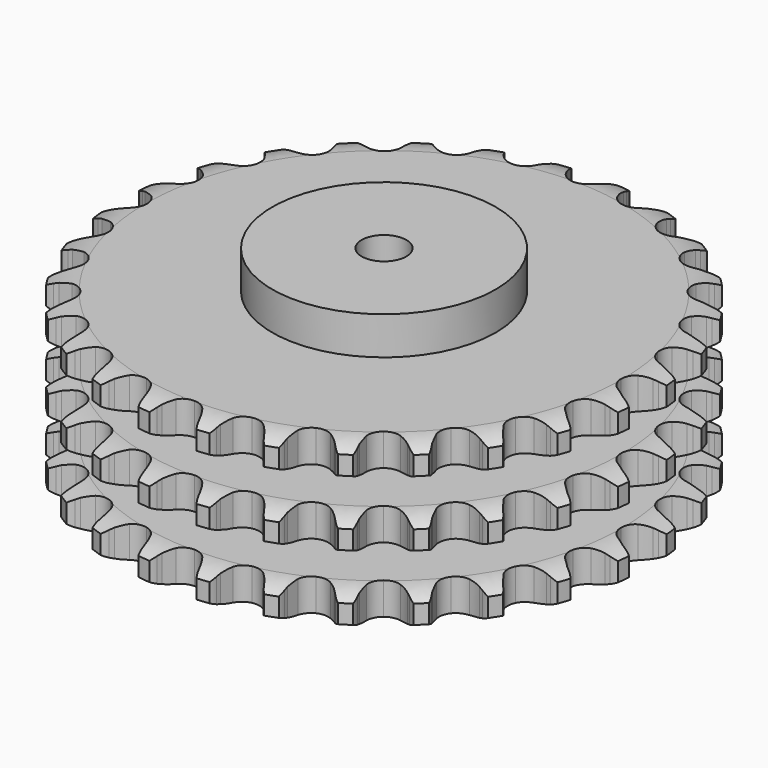
from build123d import *

# Parameters (mm, degrees)
PAD_DEPTH         = 146
SKETCH001_R       = 100
PAD001_DEPTH      = 180
SKETCH002_R       = 20
POCKET_DEPTH      = 0.001
POCKET_DEPTH_BACK = 180.001


with BuildPart() as part:
    # Sprocket → Pad (new body)
    with BuildSketch(Plane.XY):
        with BuildLine():
            ThreePointArc((-27.282384, 242.137854), (-21.936938, 237.213155), (-18.316343, 230.910954))
            Line((-18.316343, 230.910954), (-16.893061, 227.230633))
            ThreePointArc((-16.893061, 227.230633), (-14.635595, 222.420827), (-11.730702, 217.972007))
            ThreePointArc((-11.730702, 217.972007), (-6.549879, 213.679527), (0, 212.141543))
            ThreePointArc((0, 212.141543), (6.549879, 213.679527), (11.730702, 217.972007))
            ThreePointArc((11.730702, 217.972007), (14.635595, 222.420827), (16.893061, 227.230633))
            Line((16.893061, 227.230633), (18.316343, 230.910954))
            ThreePointArc((18.316343, 230.910954), (21.936938, 237.213155), (27.282384, 242.137854))
            ThreePointArc((27.282384, 242.137854), (31.39796, 236.147154), (33.525407, 229.197304))
            Line((33.525407, 229.197304), (34.094056, 225.292547))
            ThreePointArc((34.094056, 225.292547), (35.22464, 220.100998), (37.066746, 215.117321))
            ThreePointArc((37.066746, 215.117321), (41.162508, 209.77962), (47.205934, 206.822712))
            ThreePointArc((47.205934, 206.822712), (53.933828, 206.86465), (59.939923, 209.896667))
            Line((59.939923, 209.896667), (67.03309, 217.774427))
            ThreePointArc((67.03309, 217.774427), (68.093965, 219.438693), (69.239635, 221.045765))
            ThreePointArc((69.239635, 221.045765), (74.171826, 226.384298), (80.479099, 229.99605))
            ThreePointArc((80.479099, 229.99605), (83.158433, 223.239748), (83.686054, 215.990744))
            Line((83.686054, 215.990744), (83.371554, 212.057351))
            ThreePointArc((83.371554, 212.057351), (83.318565, 206.744387), (84.005513, 201.475753))
            ThreePointArc((84.005513, 201.475753), (86.810835, 195.360487), (92.044766, 191.132926))
            ThreePointArc((92.044766, 191.132926), (98.613309, 189.676715), (105.143507, 191.296232))
            Line((105.143507, 191.296232), (113.811799, 197.398102))
            ThreePointArc((113.811799, 197.398102), (115.21641, 198.784574), (116.690963, 200.096417))
            ThreePointArc((116.690963, 200.096417), (122.687429, 204.203587), (129.640256, 206.321285))
            ThreePointArc((129.640256, 206.321285), (130.748995, 199.13817), (129.650332, 191.953506))
            Line((129.650332, 191.953506), (128.468455, 188.188715))
            ThreePointArc((128.468455, 188.188715), (127.234548, 183.020749), (126.731892, 177.73135))
            ThreePointArc((126.731892, 177.73135), (128.106104, 171.145164), (132.268089, 165.858937))
            ThreePointArc((132.268089, 165.858937), (138.347908, 162.977598), (145.074755, 163.103405))
            Line((145.074755, 163.103405), (154.88351, 167.123411))
            ThreePointArc((154.88351, 167.123411), (156.561424, 168.162566), (158.290918, 169.113401))
            ThreePointArc((158.290918, 169.113401), (165.050972, 171.783256), (172.300709, 172.300709))
            ThreePointArc((172.300709, 172.300709), (171.783256, 165.050972), (169.113401, 158.290918))
            Line((169.113401, 158.290918), (167.123411, 154.88351))
            ThreePointArc((167.123411, 154.88351), (164.770461, 150.119686), (163.103405, 145.074755))
            ThreePointArc((163.103405, 145.074755), (162.977598, 138.347908), (165.858937, 132.268089))
            ThreePointArc((165.858937, 132.268089), (171.145164, 128.106104), (177.73135, 126.731892))
            Line((177.73135, 126.731892), (188.188715, 128.468455))
            ThreePointArc((188.188715, 128.468455), (190.055793, 129.108186), (191.953506, 129.650332))
            ThreePointArc((191.953506, 129.650332), (199.13817, 130.748995), (206.321285, 129.640256))
            ThreePointArc((206.321285, 129.640256), (204.203587, 122.687429), (200.096417, 116.690963))
            Line((200.096417, 116.690963), (197.398102, 113.811799))
            ThreePointArc((197.398102, 113.811799), (194.044094, 109.690995), (191.296232, 105.143507))
            ThreePointArc((191.296232, 105.143507), (189.676715, 98.613309), (191.132926, 92.044766))
            ThreePointArc((191.132926, 92.044766), (195.360487, 86.810835), (201.475753, 84.005513))
            Line((201.475753, 84.005513), (212.057351, 83.371554))
            ThreePointArc((212.057351, 83.371554), (214.019972, 83.579781), (215.990744, 83.686054))
            ThreePointArc((215.990744, 83.686054), (223.239748, 83.158433), (229.99605, 80.479099))
            ThreePointArc((229.99605, 80.479099), (226.384298, 74.171826), (221.045765, 69.239635))
            Line((221.045765, 69.239635), (217.774427, 67.03309))
            ThreePointArc((217.774427, 67.03309), (213.587546, 63.76194), (209.896667, 59.939923))
            ThreePointArc((209.896667, 59.939923), (206.86465, 53.933828), (206.822712, 47.205934))
            ThreePointArc((206.822712, 47.205934), (209.77962, 41.162508), (215.117321, 37.066746))
            Line((215.117321, 37.066746), (225.292547, 34.094056))
            ThreePointArc((225.292547, 34.094056), (227.252295, 33.860338), (229.197304, 33.525407))
            ThreePointArc((229.197304, 33.525407), (236.147154, 31.39796), (242.137854, 27.282384))
            ThreePointArc((242.137854, 27.282384), (237.213155, 21.936938), (230.910954, 18.316343))
            Line((230.910954, 18.316343), (227.230633, 16.893061))
            ThreePointArc((227.230633, 16.893061), (222.420827, 14.635595), (217.972007, 11.730702))
            ThreePointArc((217.972007, 11.730702), (213.679527, 6.549879), (212.141543, 0))
            ThreePointArc((212.141543, 0), (213.679527, -6.549879), (217.972007, -11.730702))
            Line((217.972007, -11.730702), (227.230633, -16.893061))
            ThreePointArc((227.230633, -16.893061), (229.08924, -17.557005), (230.910954, -18.316343))
            ThreePointArc((230.910954, -18.316343), (237.213155, -21.936938), (242.137854, -27.282384))
            ThreePointArc((242.137854, -27.282384), (236.147154, -31.39796), (229.197304, -33.525407))
            Line((229.197304, -33.525407), (225.292547, -34.094056))
            ThreePointArc((225.292547, -34.094056), (220.100998, -35.22464), (215.117321, -37.066746))
            ThreePointArc((215.117321, -37.066746), (209.77962, -41.162508), (206.822712, -47.205934))
            ThreePointArc((206.822712, -47.205934), (206.86465, -53.933828), (209.896667, -59.939923))
            Line((209.896667, -59.939923), (217.774427, -67.03309))
            ThreePointArc((217.774427, -67.03309), (219.438693, -68.093965), (221.045765, -69.239635))
            ThreePointArc((221.045765, -69.239635), (226.384298, -74.171826), (229.99605, -80.479099))
            ThreePointArc((229.99605, -80.479099), (223.239748, -83.158433), (215.990744, -83.686054))
            Line((215.990744, -83.686054), (212.057351, -83.371554))
            ThreePointArc((212.057351, -83.371554), (206.744387, -83.318565), (201.475753, -84.005513))
            ThreePointArc((201.475753, -84.005513), (195.360487, -86.810835), (191.132926, -92.044766))
            ThreePointArc((191.132926, -92.044766), (189.676715, -98.613309), (191.296232, -105.143507))
            Line((191.296232, -105.143507), (197.398102, -113.811799))
            ThreePointArc((197.398102, -113.811799), (198.784574, -115.21641), (200.096417, -116.690963))
            ThreePointArc((200.096417, -116.690963), (204.203587, -122.687429), (206.321285, -129.640256))
            ThreePointArc((206.321285, -129.640256), (199.13817, -130.748995), (191.953506, -129.650332))
            Line((191.953506, -129.650332), (188.188715, -128.468455))
            ThreePointArc((188.188715, -128.468455), (183.020749, -127.234548), (177.73135, -126.731892))
            ThreePointArc((177.73135, -126.731892), (171.145164, -128.106104), (165.858937, -132.268089))
            ThreePointArc((165.858937, -132.268089), (162.977598, -138.347908), (163.103405, -145.074755))
            Line((163.103405, -145.074755), (167.123411, -154.88351))
            ThreePointArc((167.123411, -154.88351), (168.162566, -156.561424), (169.113401, -158.290918))
            ThreePointArc((169.113401, -158.290918), (171.783256, -165.050972), (172.300709, -172.300709))
            ThreePointArc((172.300709, -172.300709), (165.050972, -171.783256), (158.290918, -169.113401))
            Line((158.290918, -169.113401), (154.88351, -167.123411))
            ThreePointArc((154.88351, -167.123411), (150.119686, -164.770461), (145.074755, -163.103405))
            ThreePointArc((145.074755, -163.103405), (138.347908, -162.977598), (132.268089, -165.858937))
            ThreePointArc((132.268089, -165.858937), (128.106104, -171.145164), (126.731892, -177.73135))
            Line((126.731892, -177.73135), (128.468455, -188.188715))
            ThreePointArc((128.468455, -188.188715), (129.108186, -190.055793), (129.650332, -191.953506))
            ThreePointArc((129.650332, -191.953506), (130.748995, -199.13817), (129.640256, -206.321285))
            ThreePointArc((129.640256, -206.321285), (122.687429, -204.203587), (116.690963, -200.096417))
            Line((116.690963, -200.096417), (113.811799, -197.398102))
            ThreePointArc((113.811799, -197.398102), (109.690995, -194.044094), (105.143507, -191.296232))
            ThreePointArc((105.143507, -191.296232), (98.613309, -189.676715), (92.044766, -191.132926))
            ThreePointArc((92.044766, -191.132926), (86.810835, -195.360487), (84.005513, -201.475753))
            Line((84.005513, -201.475753), (83.371554, -212.057351))
            ThreePointArc((83.371554, -212.057351), (83.579781, -214.019972), (83.686054, -215.990744))
            ThreePointArc((83.686054, -215.990744), (83.158433, -223.239748), (80.479099, -229.99605))
            ThreePointArc((80.479099, -229.99605), (74.171826, -226.384298), (69.239635, -221.045765))
            Line((69.239635, -221.045765), (67.03309, -217.774427))
            ThreePointArc((67.03309, -217.774427), (63.76194, -213.587546), (59.939923, -209.896667))
            ThreePointArc((59.939923, -209.896667), (53.933828, -206.86465), (47.205934, -206.822712))
            ThreePointArc((47.205934, -206.822712), (41.162508, -209.77962), (37.066746, -215.117321))
            Line((37.066746, -215.117321), (34.094056, -225.292547))
            ThreePointArc((34.094056, -225.292547), (33.860338, -227.252295), (33.525407, -229.197304))
            ThreePointArc((33.525407, -229.197304), (31.39796, -236.147154), (27.282384, -242.137854))
            ThreePointArc((27.282384, -242.137854), (21.936938, -237.213155), (18.316343, -230.910954))
            Line((18.316343, -230.910954), (16.893061, -227.230633))
            ThreePointArc((16.893061, -227.230633), (14.635595, -222.420827), (11.730702, -217.972007))
            ThreePointArc((11.730702, -217.972007), (6.549879, -213.679527), (0, -212.141543))
            ThreePointArc((0, -212.141543), (-6.549879, -213.679527), (-11.730702, -217.972007))
            Line((-11.730702, -217.972007), (-16.893061, -227.230633))
            ThreePointArc((-16.893061, -227.230633), (-17.557005, -229.08924), (-18.316343, -230.910954))
            ThreePointArc((-18.316343, -230.910954), (-21.936938, -237.213155), (-27.282384, -242.137854))
            ThreePointArc((-27.282384, -242.137854), (-31.39796, -236.147154), (-33.525407, -229.197304))
            Line((-33.525407, -229.197304), (-34.094056, -225.292547))
            ThreePointArc((-34.094056, -225.292547), (-35.22464, -220.100998), (-37.066746, -215.117321))
            ThreePointArc((-37.066746, -215.117321), (-41.162508, -209.77962), (-47.205934, -206.822712))
            ThreePointArc((-47.205934, -206.822712), (-53.933828, -206.86465), (-59.939923, -209.896667))
            Line((-59.939923, -209.896667), (-67.03309, -217.774427))
            ThreePointArc((-67.03309, -217.774427), (-68.093965, -219.438693), (-69.239635, -221.045765))
            ThreePointArc((-69.239635, -221.045765), (-74.171826, -226.384298), (-80.479099, -229.99605))
            ThreePointArc((-80.479099, -229.99605), (-83.158433, -223.239748), (-83.686054, -215.990744))
            Line((-83.686054, -215.990744), (-83.371554, -212.057351))
            ThreePointArc((-83.371554, -212.057351), (-83.318565, -206.744387), (-84.005513, -201.475753))
            ThreePointArc((-84.005513, -201.475753), (-86.810835, -195.360487), (-92.044766, -191.132926))
            ThreePointArc((-92.044766, -191.132926), (-98.613309, -189.676715), (-105.143507, -191.296232))
            Line((-105.143507, -191.296232), (-113.811799, -197.398102))
            ThreePointArc((-113.811799, -197.398102), (-115.21641, -198.784574), (-116.690963, -200.096417))
            ThreePointArc((-116.690963, -200.096417), (-122.687429, -204.203587), (-129.640256, -206.321285))
            ThreePointArc((-129.640256, -206.321285), (-130.748995, -199.13817), (-129.650332, -191.953506))
            Line((-129.650332, -191.953506), (-128.468455, -188.188715))
            ThreePointArc((-128.468455, -188.188715), (-127.234548, -183.020749), (-126.731892, -177.73135))
            ThreePointArc((-126.731892, -177.73135), (-128.106104, -171.145164), (-132.268089, -165.858937))
            ThreePointArc((-132.268089, -165.858937), (-138.347908, -162.977598), (-145.074755, -163.103405))
            Line((-145.074755, -163.103405), (-154.88351, -167.123411))
            ThreePointArc((-154.88351, -167.123411), (-156.561424, -168.162566), (-158.290918, -169.113401))
            ThreePointArc((-158.290918, -169.113401), (-165.050972, -171.783256), (-172.300709, -172.300709))
            ThreePointArc((-172.300709, -172.300709), (-171.783256, -165.050972), (-169.113401, -158.290918))
            Line((-169.113401, -158.290918), (-167.123411, -154.88351))
            ThreePointArc((-167.123411, -154.88351), (-164.770461, -150.119686), (-163.103405, -145.074755))
            ThreePointArc((-163.103405, -145.074755), (-162.977598, -138.347908), (-165.858937, -132.268089))
            ThreePointArc((-165.858937, -132.268089), (-171.145164, -128.106104), (-177.73135, -126.731892))
            Line((-177.73135, -126.731892), (-188.188715, -128.468455))
            ThreePointArc((-188.188715, -128.468455), (-190.055793, -129.108186), (-191.953506, -129.650332))
            ThreePointArc((-191.953506, -129.650332), (-199.13817, -130.748995), (-206.321285, -129.640256))
            ThreePointArc((-206.321285, -129.640256), (-204.203587, -122.687429), (-200.096417, -116.690963))
            Line((-200.096417, -116.690963), (-197.398102, -113.811799))
            ThreePointArc((-197.398102, -113.811799), (-194.044094, -109.690995), (-191.296232, -105.143507))
            ThreePointArc((-191.296232, -105.143507), (-189.676715, -98.613309), (-191.132926, -92.044766))
            ThreePointArc((-191.132926, -92.044766), (-195.360487, -86.810835), (-201.475753, -84.005513))
            Line((-201.475753, -84.005513), (-212.057351, -83.371554))
            ThreePointArc((-212.057351, -83.371554), (-214.019972, -83.579781), (-215.990744, -83.686054))
            ThreePointArc((-215.990744, -83.686054), (-223.239748, -83.158433), (-229.99605, -80.479099))
            ThreePointArc((-229.99605, -80.479099), (-226.384298, -74.171826), (-221.045765, -69.239635))
            Line((-221.045765, -69.239635), (-217.774427, -67.03309))
            ThreePointArc((-217.774427, -67.03309), (-213.587546, -63.76194), (-209.896667, -59.939923))
            ThreePointArc((-209.896667, -59.939923), (-206.86465, -53.933828), (-206.822712, -47.205934))
            ThreePointArc((-206.822712, -47.205934), (-209.77962, -41.162508), (-215.117321, -37.066746))
            Line((-215.117321, -37.066746), (-225.292547, -34.094056))
            ThreePointArc((-225.292547, -34.094056), (-227.252295, -33.860338), (-229.197304, -33.525407))
            ThreePointArc((-229.197304, -33.525407), (-236.147154, -31.39796), (-242.137854, -27.282384))
            ThreePointArc((-242.137854, -27.282384), (-237.213155, -21.936938), (-230.910954, -18.316343))
            Line((-230.910954, -18.316343), (-227.230633, -16.893061))
            ThreePointArc((-227.230633, -16.893061), (-222.420827, -14.635595), (-217.972007, -11.730702))
            ThreePointArc((-217.972007, -11.730702), (-213.679527, -6.549879), (-212.141543, 0))
            ThreePointArc((-212.141543, 0), (-213.679527, 6.549879), (-217.972007, 11.730702))
            Line((-217.972007, 11.730702), (-227.230633, 16.893061))
            ThreePointArc((-227.230633, 16.893061), (-229.08924, 17.557005), (-230.910954, 18.316343))
            ThreePointArc((-230.910954, 18.316343), (-237.213155, 21.936938), (-242.137854, 27.282384))
            ThreePointArc((-242.137854, 27.282384), (-236.147154, 31.39796), (-229.197304, 33.525407))
            Line((-229.197304, 33.525407), (-225.292547, 34.094056))
            ThreePointArc((-225.292547, 34.094056), (-220.100998, 35.22464), (-215.117321, 37.066746))
            ThreePointArc((-215.117321, 37.066746), (-209.77962, 41.162508), (-206.822712, 47.205934))
            ThreePointArc((-206.822712, 47.205934), (-206.86465, 53.933828), (-209.896667, 59.939923))
            Line((-209.896667, 59.939923), (-217.774427, 67.03309))
            ThreePointArc((-217.774427, 67.03309), (-219.438693, 68.093965), (-221.045765, 69.239635))
            ThreePointArc((-221.045765, 69.239635), (-226.384298, 74.171826), (-229.99605, 80.479099))
            ThreePointArc((-229.99605, 80.479099), (-223.239748, 83.158433), (-215.990744, 83.686054))
            Line((-215.990744, 83.686054), (-212.057351, 83.371554))
            ThreePointArc((-212.057351, 83.371554), (-206.744387, 83.318565), (-201.475753, 84.005513))
            ThreePointArc((-201.475753, 84.005513), (-195.360487, 86.810835), (-191.132926, 92.044766))
            ThreePointArc((-191.132926, 92.044766), (-189.676715, 98.613309), (-191.296232, 105.143507))
            Line((-191.296232, 105.143507), (-197.398102, 113.811799))
            ThreePointArc((-197.398102, 113.811799), (-198.784574, 115.21641), (-200.096417, 116.690963))
            ThreePointArc((-200.096417, 116.690963), (-204.203587, 122.687429), (-206.321285, 129.640256))
            ThreePointArc((-206.321285, 129.640256), (-199.13817, 130.748995), (-191.953506, 129.650332))
            Line((-191.953506, 129.650332), (-188.188715, 128.468455))
            ThreePointArc((-188.188715, 128.468455), (-183.020749, 127.234548), (-177.73135, 126.731892))
            ThreePointArc((-177.73135, 126.731892), (-171.145164, 128.106104), (-165.858937, 132.268089))
            ThreePointArc((-165.858937, 132.268089), (-162.977598, 138.347908), (-163.103405, 145.074755))
            Line((-163.103405, 145.074755), (-167.123411, 154.88351))
            ThreePointArc((-167.123411, 154.88351), (-168.162566, 156.561424), (-169.113401, 158.290918))
            ThreePointArc((-169.113401, 158.290918), (-171.783256, 165.050972), (-172.300709, 172.300709))
            ThreePointArc((-172.300709, 172.300709), (-165.050972, 171.783256), (-158.290918, 169.113401))
            Line((-158.290918, 169.113401), (-154.88351, 167.123411))
            ThreePointArc((-154.88351, 167.123411), (-150.119686, 164.770461), (-145.074755, 163.103405))
            ThreePointArc((-145.074755, 163.103405), (-138.347908, 162.977598), (-132.268089, 165.858937))
            ThreePointArc((-132.268089, 165.858937), (-128.106104, 171.145164), (-126.731892, 177.73135))
            Line((-126.731892, 177.73135), (-128.468455, 188.188715))
            ThreePointArc((-128.468455, 188.188715), (-129.108186, 190.055793), (-129.650332, 191.953506))
            ThreePointArc((-129.650332, 191.953506), (-130.748995, 199.13817), (-129.640256, 206.321285))
            ThreePointArc((-129.640256, 206.321285), (-122.687429, 204.203587), (-116.690963, 200.096417))
            Line((-116.690963, 200.096417), (-113.811799, 197.398102))
            ThreePointArc((-113.811799, 197.398102), (-109.690995, 194.044094), (-105.143507, 191.296232))
            ThreePointArc((-105.143507, 191.296232), (-98.613309, 189.676715), (-92.044766, 191.132926))
            ThreePointArc((-92.044766, 191.132926), (-86.810835, 195.360487), (-84.005513, 201.475753))
            Line((-84.005513, 201.475753), (-83.371554, 212.057351))
            ThreePointArc((-83.371554, 212.057351), (-83.579781, 214.019972), (-83.686054, 215.990744))
            ThreePointArc((-83.686054, 215.990744), (-83.158433, 223.239748), (-80.479099, 229.99605))
            ThreePointArc((-80.479099, 229.99605), (-74.171826, 226.384298), (-69.239635, 221.045765))
            Line((-69.239635, 221.045765), (-67.03309, 217.774427))
            ThreePointArc((-67.03309, 217.774427), (-63.76194, 213.587546), (-59.939923, 209.896667))
            ThreePointArc((-59.939923, 209.896667), (-53.933828, 206.86465), (-47.205934, 206.822712))
            ThreePointArc((-47.205934, 206.822712), (-41.162508, 209.77962), (-37.066746, 215.117321))
            Line((-37.066746, 215.117321), (-34.094056, 225.292547))
            ThreePointArc((-34.094056, 225.292547), (-33.860338, 227.252295), (-33.525407, 229.197304))
            ThreePointArc((-33.525407, 229.197304), (-31.39796, 236.147154), (-27.282384, 242.137854))
        make_face()
    extrude(amount=PAD_DEPTH)

    # Sketch → Groove (revolve, cut)
    with BuildSketch(Plane.XZ):
        with BuildLine():
            ThreePointArc((213.1, 0), (225.469317, 1.522732), (237.1, 6))
            Line((237.1, 6), (237.1, 22.8))
            ThreePointArc((237.1, 22.8), (225.469317, 27.277268), (213.1, 28.8))
            Line((100, 28.8), (213.1, 28.8))
            Line((100, 28.8), (100, 58.6))
            Line((100, 58.6), (213.1, 58.6))
            ThreePointArc((213.1, 58.6), (225.469317, 60.122732), (237.1, 64.6))
            Line((237.1, 81.4), (237.1, 64.6))
            ThreePointArc((237.1, 81.4), (225.469317, 85.877268), (213.1, 87.4))
            Line((100, 87.4), (213.1, 87.4))
            Line((100, 117.2), (100, 87.4))
            Line((213.1, 117.2), (100, 117.2))
            ThreePointArc((213.1, 117.2), (225.469317, 118.722732), (237.1, 123.2))
            Line((237.1, 123.2), (237.1, 140))
            ThreePointArc((237.1, 140), (225.469317, 144.477268), (213.1, 146))
            Line((213.1, 146), (247.1, 146))
            Line((247.1, 146), (247.1, 0))
            Line((213.1, 0), (247.1, 0))
        make_face()
    revolve(axis=Axis((0, 0, 0), (0, 0, 1)), mode=Mode.SUBTRACT)

    # Sketch001 → Pad001 (join)
    with BuildSketch(Plane.XY):
        Circle(SKETCH001_R)
    extrude(amount=PAD001_DEPTH)

    # Sketch002 → Pocket (cut, two sides)
    with BuildSketch(Plane.XY) as pocket_sk:
        Circle(SKETCH002_R)
    extrude(amount=-POCKET_DEPTH, mode=Mode.SUBTRACT)
    extrude(pocket_sk.sketch, amount=POCKET_DEPTH_BACK, mode=Mode.SUBTRACT)


solid = part.part
